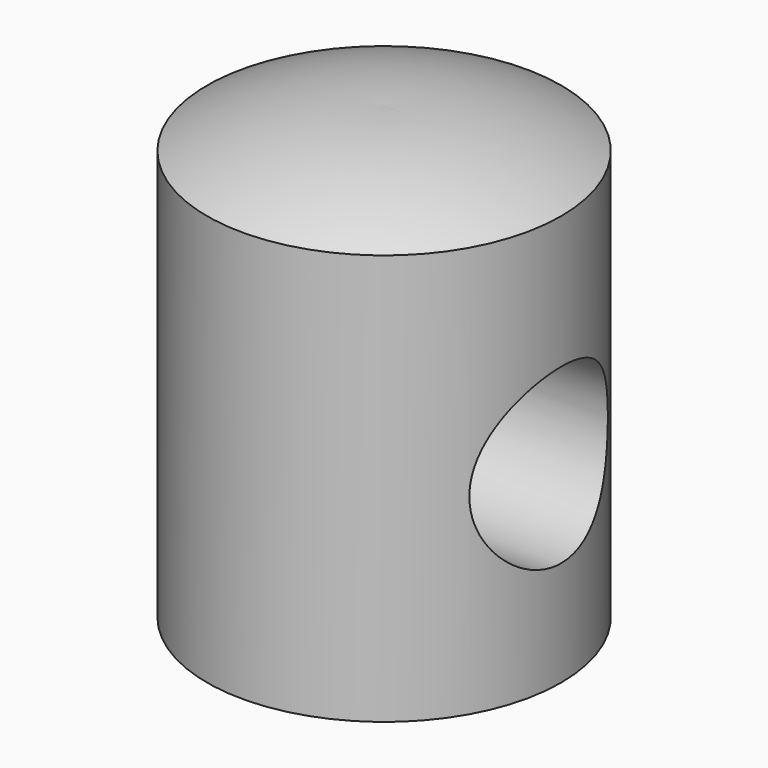
from build123d import *

# Parameters (mm, degrees)
F2_R     = 9.531457
F3_DEPTH = 223520


with BuildPart() as f1:
    # F0 (on Front) → F1 (revolve)
    with BuildSketch(Plane.XZ):
        with BuildLine():
            Line((43.632135, 8.443266), (63.132063, 8.443266))
            Line((63.132063, 8.443266), (63.132063, 53.675052))
            ThreePointArc((63.132063, 53.675052), (53.673587, 57.171581), (43.632135, 58.097716))
            Line((43.632135, 58.097716), (43.632135, 8.443266))
        make_face()
    revolve(axis=Axis((43.632135, 0, 33.270491), (0, 0, 1)))

    # F2 (on Right) → F3 (cut)
    with BuildSketch(Plane.YZ):
        with Locations((0, 29.551433)):
            Circle(F2_R)
    extrude(amount=F3_DEPTH, mode=Mode.SUBTRACT)


solid = f1.part
